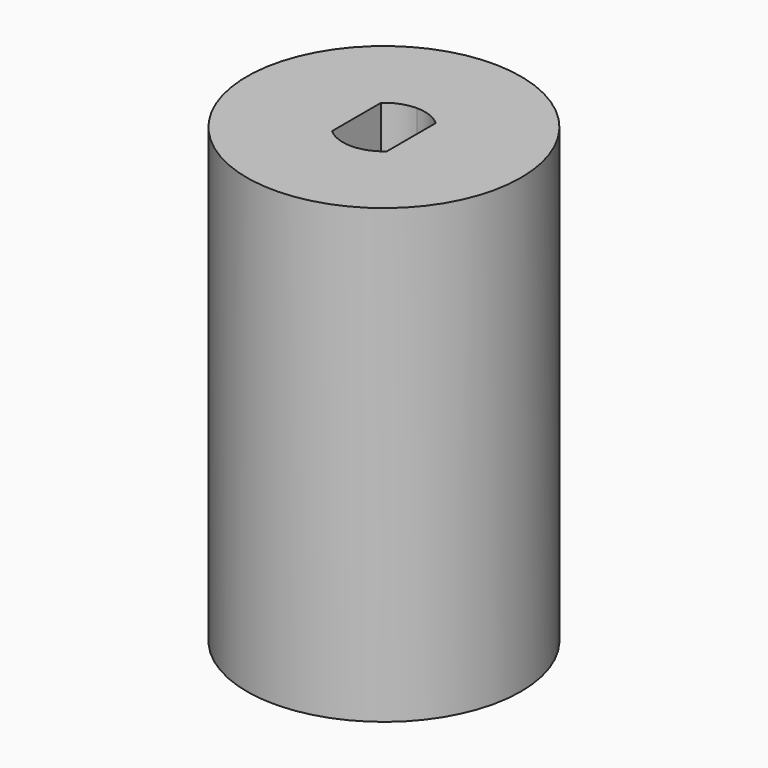
from build123d import *

# Parameters (mm, degrees)
F0_R     = 10
F1_DEPTH = 18
F3_DEPTH = 15
F4_R     = 5
F5_DEPTH = 3
F6_R     = 10
F6_R_2   = 5
F7_DEPTH = 15


with BuildPart() as f1:
    # F0 (on Top) → F1 (new body)
    with BuildSketch(Plane.XY):
        Circle(F0_R)
    extrude(amount=F1_DEPTH)

    # F2 (on face) → F3 (cut)
    with BuildSketch(Plane(origin=(0, 0, 0), x_dir=(1, 0, 0), z_dir=(0, 0, -1))):
        with BuildLine():
            Line((3.5, -3.5707142143), (3.5, 3.5707142143))
            ThreePointArc((3.5, 3.5707142143), (2.87748668, 4.0890182693), (2.1794494718, 4.5))
            Line((2.1794494718, 4.5), (-2.1794494718, 4.5))
            ThreePointArc((-2.1794494718, 4.5), (-2.87748668, 4.0890182693), (-3.5, 3.5707142143))
            Line((-3.5, 3.5707142143), (-3.5, -3.5707142143))
            ThreePointArc((-3.5, -3.5707142143), (-2.87748668, -4.0890182693), (-2.1794494718, -4.5))
            Line((-2.1794494718, -4.5), (2.1794494718, -4.5))
            ThreePointArc((2.1794494718, -4.5), (2.87748668, -4.0890182693), (3.5, -3.5707142143))
        make_face()
    extrude(amount=-F3_DEPTH, mode=Mode.SUBTRACT)

    # F4 (on face) → F5 (cut)
    with BuildSketch(Plane.XY.offset(18)):
        Circle(F4_R)
    extrude(amount=-F5_DEPTH, mode=Mode.SUBTRACT)

    # F6 (on face) → F7 (join)
    with BuildSketch(Plane.XY.offset(18)):
        Circle(F6_R)
        Circle(F6_R_2, mode=Mode.SUBTRACT)
        Circle(F6_R_2)
        with BuildLine():
            ThreePointArc((2, 2.2360679775), (2.7386127875, 1.2247448714), (3, 0))
            ThreePointArc((3, 0), (2.7386127875, -1.2247448714), (2, -2.2360679775))
            Line((2, -2.2360679775), (2, -3))
            Line((2, -3), (0, -3))
            Line((0, -3), (-2, -3))
            Line((-2, -3), (-2, -2.2360679775))
            ThreePointArc((-2, -2.2360679775), (-3, 0), (-2, 2.2360679775))
            Line((-2, 2.2360679775), (-2, 3))
            Line((-2, 3), (0, 3))
            Line((0, 3), (2, 3))
            Line((2, 3), (2, 2.2360679775))
        make_face(mode=Mode.SUBTRACT)
        with BuildLine():
            ThreePointArc((2, -2.2360679775), (2.7386127875, -1.2247448714), (3, 0))
            ThreePointArc((3, 0), (2.7386127875, 1.2247448714), (2, 2.2360679775))
            Line((2, 2.2360679775), (2, -2.2360679775))
        make_face()
        with BuildLine():
            Line((2, -3), (2, -2.2360679775))
            ThreePointArc((2, -2.2360679775), (1.0704662693, -2.8025170769), (0, -3))
            Line((0, -3), (2, -3))
        make_face()
        with BuildLine():
            Line((-2, -3), (0, -3))
            ThreePointArc((0, -3), (-1.0704662693, -2.8025170769), (-2, -2.2360679775))
            Line((-2, -2.2360679775), (-2, -3))
        make_face()
        with BuildLine():
            Line((-2, -2.2360679775), (-2, 2.2360679775))
            ThreePointArc((-2, 2.2360679775), (-3, 0), (-2, -2.2360679775))
        make_face()
        with BuildLine():
            ThreePointArc((-2, 2.2360679775), (-1.0704662693, 2.8025170769), (0, 3))
            Line((0, 3), (-2, 3))
            Line((-2, 3), (-2, 2.2360679775))
        make_face()
        with BuildLine():
            ThreePointArc((0, 3), (1.0704662693, 2.8025170769), (2, 2.2360679775))
            Line((2, 2.2360679775), (2, 3))
            Line((2, 3), (0, 3))
        make_face()
    extrude(amount=F7_DEPTH)


solid = f1.part
